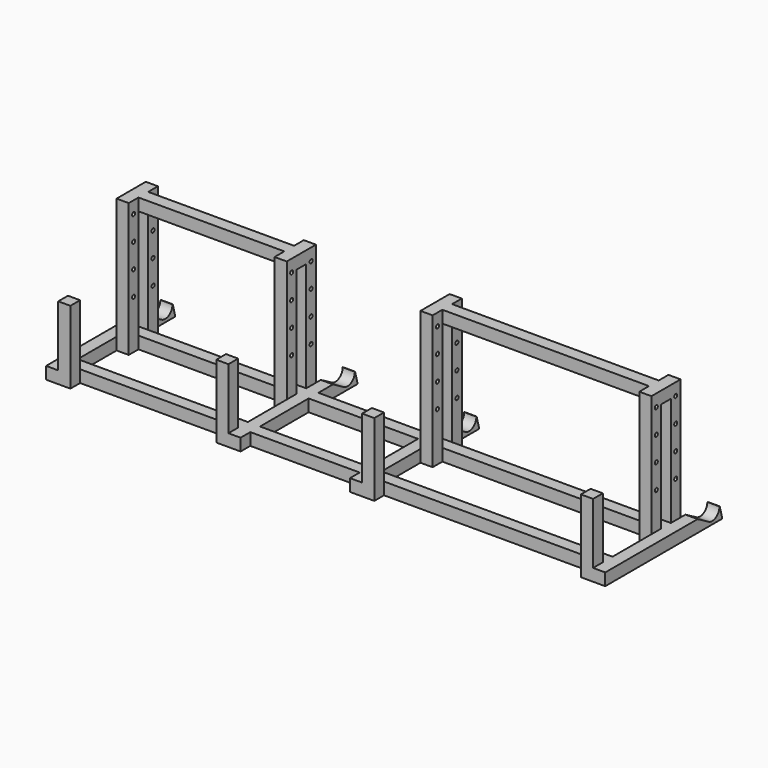
from build123d import *

# Parameters (mm, degrees)
F0_W          = 25.4
F0_H          = 25.4
F1_DEPTH      = 584.2
F2_W          = 25.4
F2_H          = 25.4
F3_DEPTH      = 279.4
F3_DEPTH_BACK = 25.4
F5_DEPTH      = 584.201
F5_DEPTH_BACK = 584.201
F6_W          = 25.4
F6_H          = 25.4
F7_DEPTH      = 279.4
F8_W          = 25.4
F8_H          = 25.4
F9_DEPTH      = 355.6
F10_W         = 25.4
F10_H         = 25.4
F11_DEPTH     = 482.6
F12_R         = 3.96875
F13_DEPTH     = 1143.001
F14_W         = 25.4
F14_H         = 25.4
F15_DEPTH     = 152.4


with BuildPart() as f1:
    # F0 (on Right) → F1 (new body, symmetric)
    with BuildSketch(Plane.YZ):
        with Locations((12.7, 12.7)):
            Rectangle(F0_W, F0_H)
    extrude(amount=F1_DEPTH, both=True)



with BuildPart() as f1b:
    # F0 (on Right) → F1, piece 2 (new body, symmetric)
    with BuildSketch(Plane.YZ):
        with Locations((165.1, 12.7)):
            Rectangle(F0_W, F0_H)
    extrude(amount=F1_DEPTH, both=True)


with BuildPart() as f1_1:
    add(f1.part)

    add(f1b.part)  # F3 merges F1b
    # F2 (on Front) → F3 (join, two sides)
    with BuildSketch(Plane.XZ) as f3_sk:
        with Locations((-571.5, 12.7)):
            Rectangle(F2_W, F2_H)
        with Locations((-190.5, 12.7)):
            Rectangle(F2_W, F2_H)
        with Locations((63.5, 12.7)):
            Rectangle(F2_W, F2_H)
        with Locations((571.5, 12.7)):
            Rectangle(F2_W, F2_H)
    extrude(amount=-F3_DEPTH)
    extrude(f3_sk.sketch, amount=F3_DEPTH_BACK)

    # F4 (on Right) → F5 (cut, two sides)
    with BuildSketch(Plane.YZ) as f5_sk:
        with BuildLine():
            Line((215.9, 25.4), (244.475, 8.9022160579))
            ThreePointArc((244.475, 8.9022160579), (272.4008869908, 20.4694971908), (254, 44.45))
            Line((254, 44.45), (215.9, 44.45))
            Line((215.9, 44.45), (215.9, 25.4))
        make_face()
        Polygon((279.4, 4.0713296347), (279.4, 25.4), (273.685, 25.4), align=None)
    extrude(amount=F5_DEPTH, mode=Mode.SUBTRACT)
    extrude(f5_sk.sketch, amount=-F5_DEPTH_BACK, mode=Mode.SUBTRACT)

    # F6 (on Top) → F7 (join)
    with BuildSketch(Plane.XY):
        with Locations((-546.1, 190.5)):
            Rectangle(F6_W, F6_H)
        with Locations((-546.1, 139.7)):
            Rectangle(F6_W, F6_H)
        with Locations((-215.9, 139.7)):
            Rectangle(F6_W, F6_H)
        with Locations((-215.9, 190.5)):
            Rectangle(F6_W, F6_H)
        with Locations((88.9, 190.5)):
            Rectangle(F6_W, F6_H)
        with Locations((546.1, 190.5)):
            Rectangle(F6_W, F6_H)
        with Locations((546.1, 139.7)):
            Rectangle(F6_W, F6_H)
        with Locations((88.9, 139.7)):
            Rectangle(F6_W, F6_H)
    extrude(amount=F7_DEPTH)

    # F8 (on face) → F9 (join, through all)
    with BuildSketch(Plane(origin=(-558.8, 0, 0), x_dir=(0, -1, 0), z_dir=(-1, 0, 0))):
        with Locations((-165.1, 266.7)):
            Rectangle(F8_W, F8_H)
    extrude(amount=-F9_DEPTH)

    # F10 (on face) → F11 (join, through all)
    with BuildSketch(Plane.YZ.offset(558.8)):
        with Locations((165.1, 266.7)):
            Rectangle(F10_W, F10_H)
    extrude(amount=-F11_DEPTH)

    # F12 (on face) → F13 (cut, through all)
    with BuildSketch(Plane(origin=(-558.8, 0, 0), x_dir=(0, -1, 0), z_dir=(-1, 0, 0))):
        with Locations((-139.7, 101.6)):
            Circle(F12_R)
        with Locations((-139.7, 152.4)):
            Circle(F12_R)
        with Locations((-139.7, 203.2)):
            Circle(F12_R)
        with Locations((-139.7, 254)):
            Circle(F12_R)
        with Locations((-190.5, 101.6)):
            Circle(F12_R)
        with Locations((-190.5, 152.4)):
            Circle(F12_R)
        with Locations((-190.5, 203.2)):
            Circle(F12_R)
        with Locations((-190.5, 254)):
            Circle(F12_R)
    extrude(amount=-F13_DEPTH, mode=Mode.SUBTRACT)

    # F14 (on Top) → F15 (join)
    with BuildSketch(Plane.XY):
        with Locations((-546.1, -12.7)):
            Rectangle(F14_W, F14_H)
        with Locations((-215.9, -12.7)):
            Rectangle(F14_W, F14_H)
        with Locations((88.9, -12.7)):
            Rectangle(F14_W, F14_H)
        with Locations((546.1, -12.7)):
            Rectangle(F14_W, F14_H)
    extrude(amount=F15_DEPTH)


solid = f1_1.part
